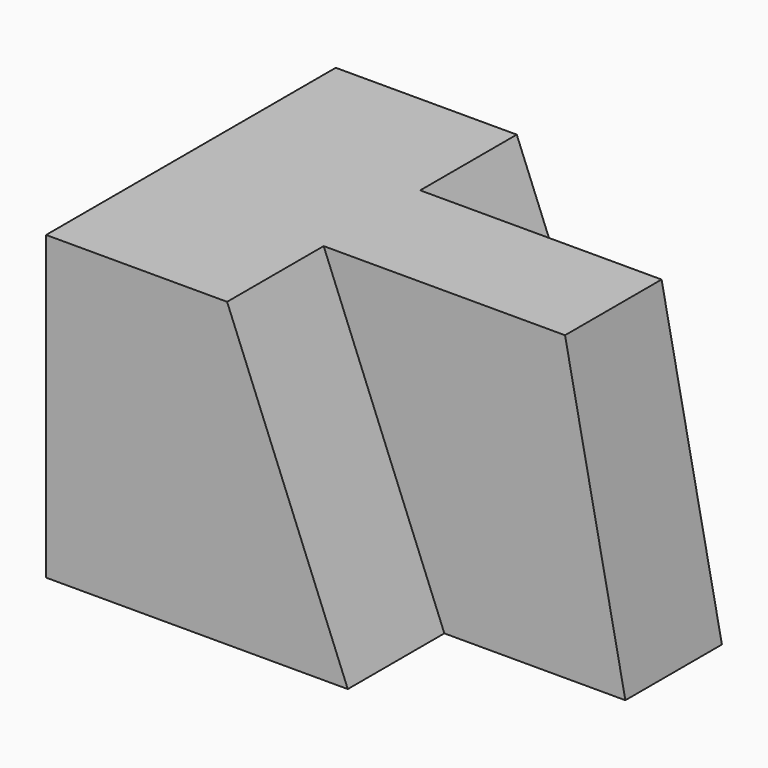
from build123d import *

# Parameters (mm, degrees)
F0_W     = 50.8
F0_H     = 38.1
F1_DEPTH = 31.75
F3_DEPTH = 12.7
F5_DEPTH = 12.7
F7_DEPTH = 25.4


with BuildPart() as f1:
    # F0 (on Top) → F1 (new body)
    with BuildSketch(Plane.XY):
        with Locations((25.4, 19.05)):
            Rectangle(F0_W, F0_H)
    extrude(amount=F1_DEPTH)

    # F2 (on face) → F3 (cut)
    with BuildSketch(Plane.XZ):
        Polygon((19.05, 31.75), (31.75, 0), (50.8, 0), (50.8, 31.75), align=None)
    extrude(amount=-F3_DEPTH, mode=Mode.SUBTRACT)

    # F4 (on face) → F5 (cut)
    with BuildSketch(Plane(origin=(0, 38.1, 0), x_dir=(-1, 0, 0), z_dir=(0, 1, 0))):
        Polygon((-50.8, 0), (-31.75, 0), (-19.05, 31.75), (-50.8, 31.75), align=None)
    extrude(amount=-F5_DEPTH, mode=Mode.SUBTRACT)

    # F6 (on face) → F7 (cut)
    with BuildSketch(Plane.XZ.offset(-12.7)):
        Polygon((44.45, 31.75), (50.8, 0), (50.8, 31.75), align=None)
    extrude(amount=-F7_DEPTH, mode=Mode.SUBTRACT)


solid = f1.part
